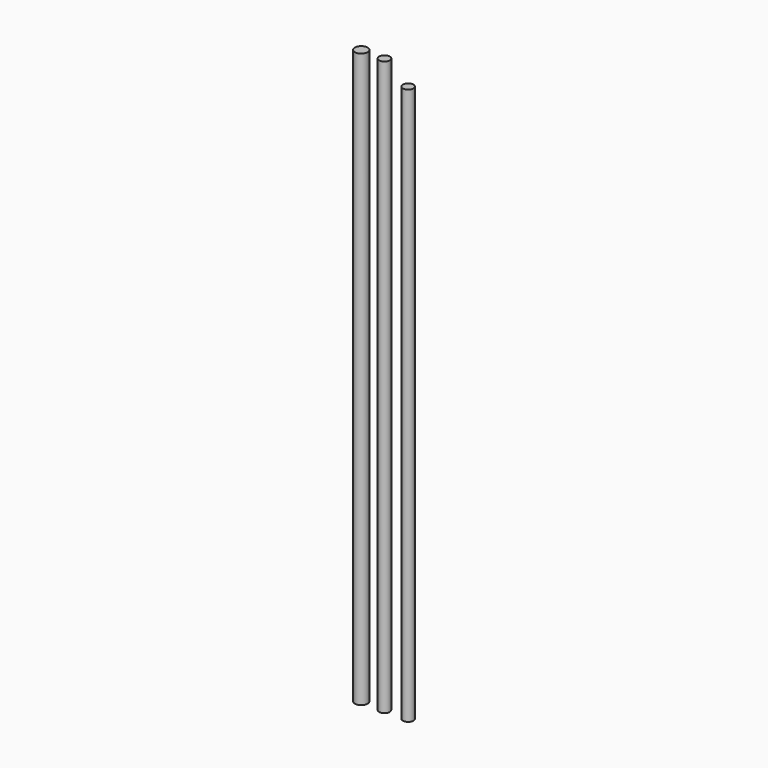
from build123d import *

# Parameters (mm, degrees)
F0_R     = 5
F1_DEPTH = 540
F2_R     = 5
F3_DEPTH = 524
F4_R     = 6
F5_DEPTH = 540


with BuildPart() as f1:
    # F0 (on Top) → F1 (new body)
    with BuildSketch(Plane.XY):
        Circle(F0_R)
    extrude(amount=F1_DEPTH)


with BuildPart() as f3:
    # F2 (on Top) → F3 (new body)
    with BuildSketch(Plane.XY):
        with Locations((22.28093, 0)):
            Circle(F2_R)
    extrude(amount=F3_DEPTH)


with BuildPart() as f5:
    # F4 (on Top) → F5 (new body)
    with BuildSketch(Plane.XY):
        with Locations((-21.867782, 0)):
            Circle(F4_R)
    extrude(amount=F5_DEPTH)


solid = Compound([f1.part, f3.part, f5.part])
